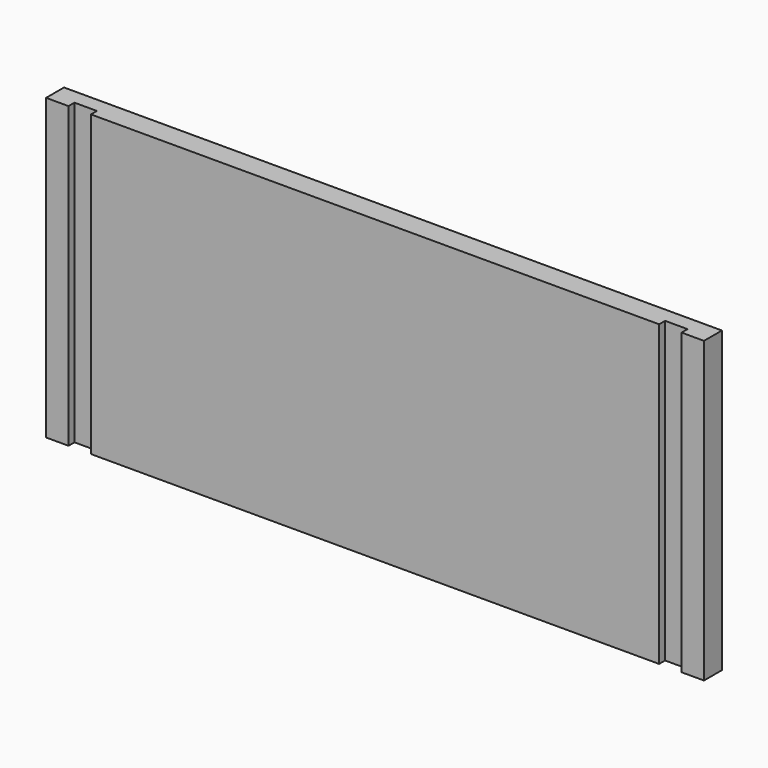
from build123d import *

# Parameters (mm, degrees)
F0_W     = 19.05
F0_H     = 254
F1_DEPTH = 19.05
F0_W_2   = 241.3
F2_DEPTH = 12.7


with BuildPart() as f1:
    # F0 (on Front) → F1 (new body)
    with BuildSketch(Plane.XZ):
        with Locations((-269.875, 0)):
            Rectangle(F0_W, F0_H)
    extrude(amount=F1_DEPTH)



with BuildPart() as f1b:
    # F0 (on Front) → F1, piece 2 (new body)
    with BuildSketch(Plane.XZ):
        with Locations((-120.65, 0)):
            Rectangle(F0_W_2, F0_H)
        with Locations((120.65, 0)):
            Rectangle(F0_W_2, F0_H)
    extrude(amount=F1_DEPTH)


with BuildPart() as f1c:
    # F0 (on Front) → F1, piece 3 (new body)
    with BuildSketch(Plane.XZ):
        with Locations((269.875, 0)):
            Rectangle(F0_W, F0_H)
    extrude(amount=F1_DEPTH)


with BuildPart() as f1_1:
    add(f1.part)

    add(f1b.part)  # F2 merges F1b

    add(f1c.part)  # F2 merges F1c
    # F0 (on Front) → F2 (join)
    with BuildSketch(Plane.XZ):
        with Locations((-250.825, 0)):
            Rectangle(F0_W, F0_H)
        with Locations((250.825, 0)):
            Rectangle(F0_W, F0_H)
    extrude(amount=F2_DEPTH)


solid = f1_1.part
